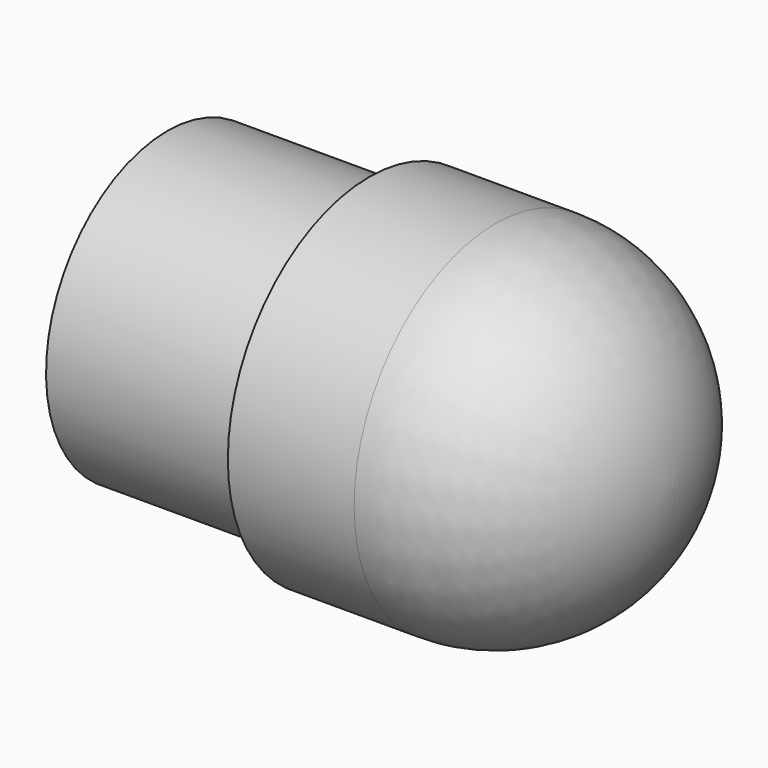
from build123d import *


with BuildPart() as f1:
    # F0 (on Front) → F1 (revolve)
    with BuildSketch(Plane.XZ):
        with BuildLine():
            Line((20, 15), (0, 15))
            Line((0, 15), (0, 0))
            Line((0, 0), (50, 0))
            ThreePointArc((50, 0), (44.874369, 12.374369), (32.5, 17.5))
            Line((32.5, 17.5), (20, 17.5))
            Line((20, 17.5), (20, 15))
        make_face()
    revolve(axis=Axis((25, 0, 0), (-1, 0, 0)))


solid = f1.part
